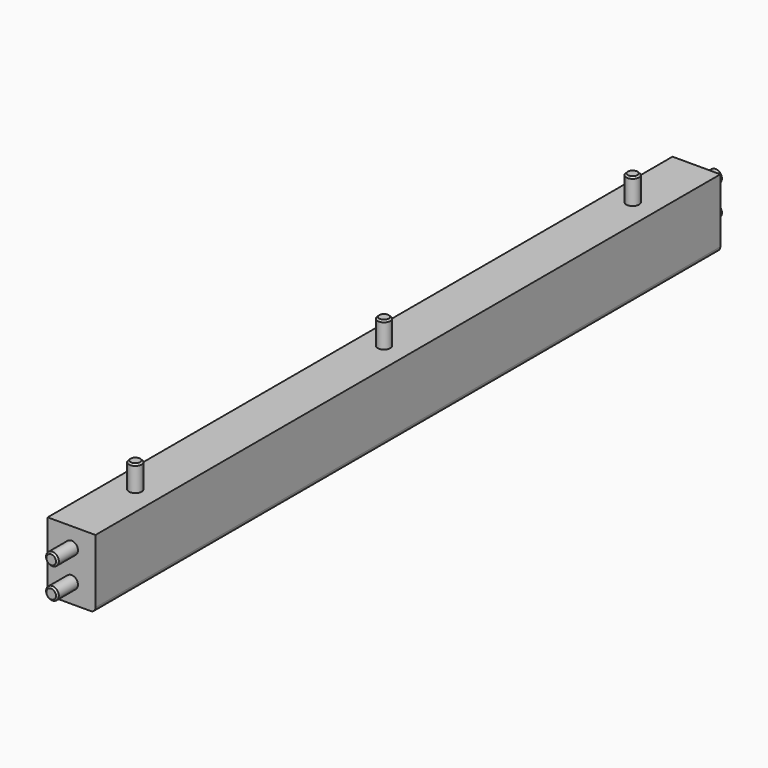
from build123d import *

# Parameters (mm, degrees)
F0_W      = 490
F0_H      = 43
F1_DEPTH  = 30
F2_R      = 4
F3_DEPTH  = 16
F4_SIZE   = 1
F5_R      = 4
F6_DEPTH  = 16
F7_SIZE   = 1
F8_R      = 3
F9_R      = 6
F10_DEPTH = 15
F11_R     = 4
F12_DEPTH = 16
F13_SIZE  = 1


with BuildPart() as f1:
    # F0 (on Right) → F1 (new body)
    with BuildSketch(Plane.YZ):
        Rectangle(F0_W, F0_H)
    extrude(amount=-F1_DEPTH)

    # F2 (on face) → F3 (join)
    with BuildSketch(Plane(origin=(0, 245, 0), x_dir=(-1, 0, 0), z_dir=(0, 1, 0))):
        with Locations((15, 9.5)):
            Circle(F2_R)
        with Locations((15, -9.5)):
            Circle(F2_R)
    extrude(amount=F3_DEPTH)

    # F4
    f4_edges = [f1.edges().sort_by_distance(p)[0] for p in [
        (-11, 261, 9.5),
        (-11, 261, -9.5),
    ]]
    chamfer(f4_edges, length=F4_SIZE)

    # F5 (on face) → F6 (join)
    with BuildSketch(Plane.XZ.offset(245)):
        with Locations((-15, 9.5)):
            Circle(F5_R)
        with Locations((-15, -9.5)):
            Circle(F5_R)
    extrude(amount=F6_DEPTH)

    # F7
    f7_edges = [f1.edges().sort_by_distance(p)[0] for p in [
        (-19, -261, 9.5),
        (-19, -261, -9.5),
    ]]
    chamfer(f7_edges, length=F7_SIZE)

    # F8
    f8_edges = [f1.edges().sort_by_distance(p)[0] for p in [
        (-30, 0, -21.5),
        (0, 0, -21.5),
    ]]
    fillet(f8_edges, radius=F8_R)

    # F9 (on face) → F10 (cut)
    with BuildSketch(Plane(origin=(0, 0, -21.5), x_dir=(1, 0, 0), z_dir=(0, 0, -1))):
        with Locations((-15, 195)):
            Circle(F9_R)
        with Locations((-15, 0)):
            Circle(F9_R)
        with Locations((-15, -195)):
            Circle(F9_R)
    extrude(amount=-F10_DEPTH, mode=Mode.SUBTRACT)

    # F11 (on face) → F12 (join)
    with BuildSketch(Plane.XY.offset(21.5)):
        with Locations((-15, 195)):
            Circle(F11_R)
        with Locations((-15, 0)):
            Circle(F11_R)
        with Locations((-15, -195)):
            Circle(F11_R)
    extrude(amount=F12_DEPTH)

    # F13
    f13_edges = [f1.edges().sort_by_distance(p)[0] for p in [
        (-19, 195, 37.5),
        (-19, 0, 37.5),
        (-19, -195, 37.5),
    ]]
    chamfer(f13_edges, length=F13_SIZE)


solid = f1.part
